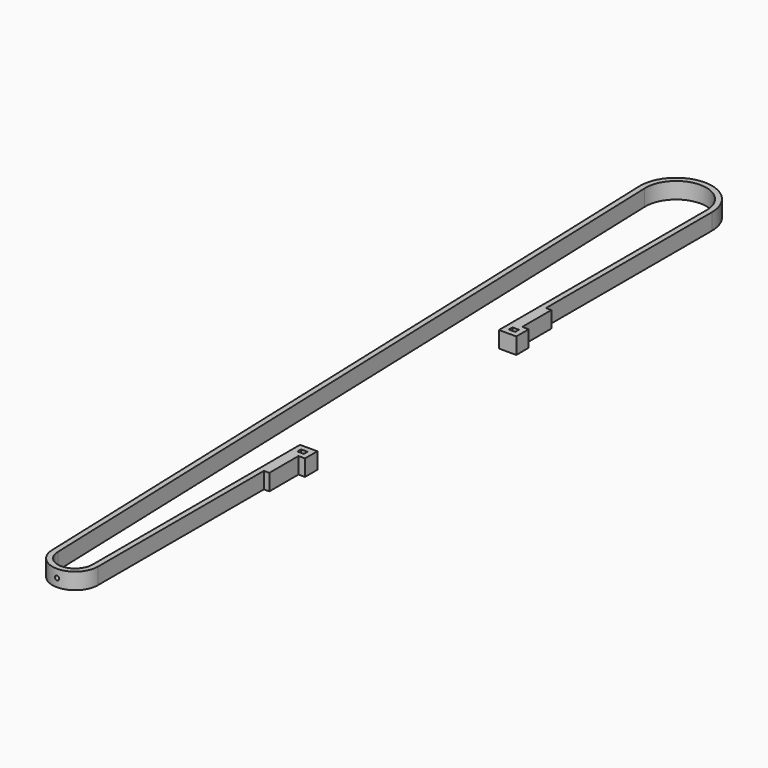
from build123d import *

# Parameters (mm, degrees)
F0_W     = 2.38125
F0_H     = 1.70942
F1_DEPTH = 6
F2_R     = 0.79375
F3_DEPTH = 103.63225


with BuildPart() as f1:
    # F0 (on Top) → F1 (new body)
    with BuildSketch(Plane.XY):
        with BuildLine():
            Line((4.38125, 2), (-2, 2))
            Line((-2, 2), (-2, -93.28125))
            ThreePointArc((-2, -93.28125), (-8.35, -99.63125), (-14.7, -93.28125))
            Line((-14.7, -93.28125), (-24.340883, 188.142617))
            ThreePointArc((-24.340883, 188.142617), (-13.400614, 199.766478), (-2, 188.593759))
            Line((-2, 188.593759), (-2, 93.312509))
            Line((-2, 93.312509), (4.38125, 93.312509))
            Line((4.38125, 93.312509), (4.38125, 99.021929))
            Line((4.38125, 99.021929), (2, 99.021929))
            Line((2, 99.021929), (2, 112.393759))
            Line((2, 112.393759), (0, 112.393759))
            Line((0, 112.393759), (0, 188.593759))
            ThreePointArc((0, 188.593759), (-13.400601, 201.766824), (-26.342267, 188.142617))
            Line((-26.342267, 188.142617), (-16.7, -93.28125))
            ThreePointArc((-16.7, -93.28125), (-8.35, -101.63125), (0, -93.28125))
            Line((0, -93.28125), (0, -17.08125))
            Line((0, -17.08125), (2, -17.08125))
            Line((2, -17.08125), (2, -3.70942))
            Line((2, -3.70942), (4.38125, -3.70942))
            Line((4.38125, -3.70942), (4.38125, 2))
        make_face()
        with Locations((1.190625, -0.85471)):
            Rectangle(F0_W, F0_H, mode=Mode.SUBTRACT)
        with Locations((1.190625, 96.167219)):
            Rectangle(F0_W, F0_H, mode=Mode.SUBTRACT)
    extrude(amount=F1_DEPTH)

    # F2 (on face) → F3 (cut, through all)
    with BuildSketch(Plane(origin=(0, 2, 0), x_dir=(-1, 0, 0), z_dir=(0, 1, 0))):
        with Locations((8.35, 3)):
            Circle(F2_R)
    extrude(amount=-F3_DEPTH, mode=Mode.SUBTRACT)


solid = f1.part
